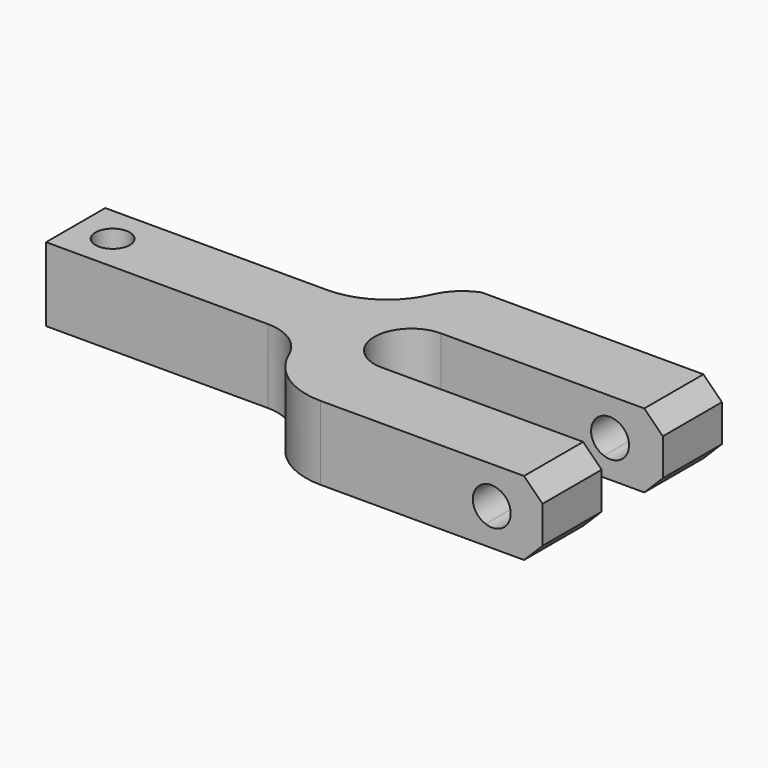
from build123d import *

# Parameters (mm, degrees)
F0_R       = 5.8934645996
F1_DEPTH   = 25.4
F4_D       = 12.7
F4_ON_F3_D = 12.7
F5_SIZE    = 6.35


with BuildPart() as f1:
    # F0 (on Top) → F1 (new body)
    with BuildSketch(Plane.XY):
        with BuildLine():
            ThreePointArc((23.6362737938, 28.2139556626), (14.1364445597, 16.9249221875), (0, 12.7))
            Line((0, 12.7), (-76.2, 12.7))
            Line((-76.2, 12.7), (-76.2, -12.7))
            Line((-76.2, -12.7), (0, -12.7))
            ThreePointArc((0, -12.7), (9.3073343437, -15.5213038758), (15.4816922387, -23.0355259068))
            ThreePointArc((15.4816922387, -23.0355259068), (24.8374177204, -34.4214869615), (38.9404008269, -38.6964812219))
            Line((38.9404008269, -38.6964812219), (115.1404008269, -38.6964812219))
            Line((115.1404008269, -38.6964812219), (115.1404008269, -13.2964812219))
            Line((115.1404008269, -13.2964812219), (38.9404008269, -13.2964812219))
            ThreePointArc((38.9404008269, -13.2964812219), (26.9165705995, -0.2651159667), (39.6211307376, 12.1035187781))
            Line((39.6211307376, 12.1035187781), (115.8211307376, 12.1035187781))
            Line((115.8211307376, 12.1035187781), (115.8211307376, 37.5035187781))
            Line((115.8211307376, 37.5035187781), (33.2611742348, 37.5035187781))
            ThreePointArc((33.2611742348, 37.5035187781), (27.5216816712, 33.819244205), (23.6362737938, 28.2139556626))
        make_face()
        with Locations((-63.5, 0)):
            Circle(F0_R, mode=Mode.SUBTRACT)
    extrude(amount=F1_DEPTH)

    # F4 (through all)
    with Locations(Plane.XZ.offset(38.6964812219)):
        with Locations((97.5403962757, 12.6839925341)):
            Hole(F4_D / 2)

    # F4 on F3 (through all)
    with Locations(Plane(origin=(0, 37.5035187781, 0), x_dir=(-1, 0, 0), z_dir=(0, 1, 0))):
        with Locations((-97.8747204662, 12.5663767254)):
            Hole(F4_ON_F3_D / 2)

    # F5
    f5_edges = [f1.edges().sort_by_distance(p)[0] for p in [
        (115.140401, -25.996481, 25.4),
        (115.140401, -25.996481, 0),
        (115.821131, 24.803519, 25.4),
        (115.821131, 24.803519, 0),
    ]]
    chamfer(f5_edges, length=F5_SIZE)


solid = f1.part
